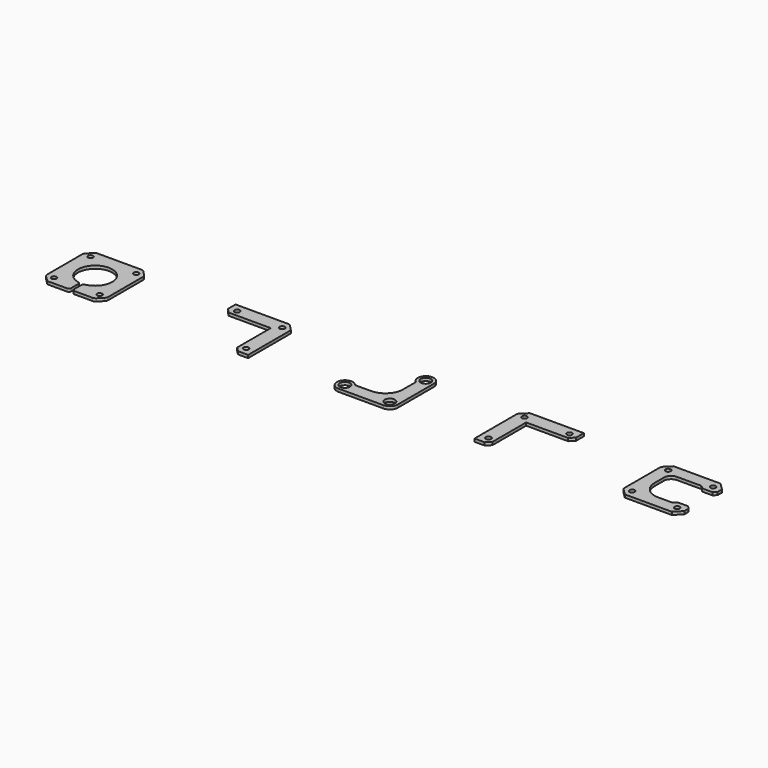
from build123d import *

# Parameters (mm, degrees)
F0_R     = 3.5
F1_DEPTH = 2
F0_R_2   = 1.8
F3_R     = 1.75
F4_DEPTH = 2
F9_DEPTH = 25
F10_R    = 1.5


with BuildPart() as f1:
    # F0 (on Top) → F1 (new body)
    with BuildSketch(Plane.XY):
        with BuildLine():
            Line((0, -12.25), (-11.0629401627, -12.25))
            ThreePointArc((-11.0629401627, -12.25), (-20.4053542176, -13.0125314072), (-15.5, -21))
            Line((-15.5, -21), (15.5, -21))
            ThreePointArc((15.5, -21), (19.3890872965, -19.3890872965), (21, -15.5))
            Line((21, -15.5), (21, 15.5))
            ThreePointArc((21, 15.5), (13.0125314072, 20.4053542176), (12.25, 11.0629401627))
            Line((12.25, 11.0629401627), (12.25, 0))
            ThreePointArc((12.25, 0), (8.6620580695, -8.6620580695), (0, -12.25))
        make_face()
        with Locations((-15.5, -15.5)):
            Circle(F0_R, mode=Mode.SUBTRACT)
        with Locations((15.5, -15.5)):
            Circle(F0_R, mode=Mode.SUBTRACT)
        with Locations((15.5, 15.5)):
            Circle(F0_R, mode=Mode.SUBTRACT)
    extrude(amount=F1_DEPTH)


with BuildPart() as f1b:
    # F0 (on Top) → F1, piece 2 (new body)
    with BuildSketch(Plane.XY):
        Polygon((88, 11.3), (117, 11.3), (120, 14.3), (120, 21), (82.8, 21), (78, 16.2), (78, -20.7), (85, -20.7), (88, -17.7), align=None)
        with Locations((83.5, -15.5)):
            Circle(F0_R_2, mode=Mode.SUBTRACT)
        with Locations((83.5, 15.5)):
            Circle(F0_R_2, mode=Mode.SUBTRACT)
        with Locations((114.5, 15.5)):
            Circle(F0_R_2, mode=Mode.SUBTRACT)
    extrude(amount=F1_DEPTH)


with BuildPart() as f1c:
    # F0 (on Top) → F1, piece 3 (new body)
    with BuildSketch(Plane.XY):
        with BuildLine():
            Line((186, -0.5), (186, 7.5))
            ThreePointArc((186, 7.5), (187.4644660941, 11.0355339059), (191, 12.5))
            Line((191, 12.5), (208, 12.5))
            Line((208, 12.5), (210, 10.5))
            Line((210, 10.5), (217, 10.5))
            Line((217, 10.5), (219, 12.5))
            Line((219, 12.5), (219, 16.2))
            Line((219, 16.2), (214.2, 21))
            Line((214.2, 21), (181.8, 21))
            Line((181.8, 21), (177, 16.2))
            Line((177, 16.2), (177, -16.2))
            Line((177, -16.2), (181.8, -21))
            Line((181.8, -21), (214.2, -21))
            Line((214.2, -21), (219, -16.2))
            Line((219, -16.2), (219, -12.5))
            Line((219, -12.5), (217, -10.5))
            Line((217, -10.5), (210, -10.5))
            Line((210, -10.5), (208, -12.5))
            Line((208, -12.5), (198, -12.5))
            ThreePointArc((198, -12.5), (189.5147186258, -8.9852813742), (186, -0.5))
        make_face()
        with Locations((182.5, -15.5)):
            Circle(F0_R_2, mode=Mode.SUBTRACT)
        with Locations((213.5, -15.5)):
            Circle(F0_R_2, mode=Mode.SUBTRACT)
        with Locations((182.5, 15.5)):
            Circle(F0_R_2, mode=Mode.SUBTRACT)
        with Locations((213.5, 15.5)):
            Circle(F0_R_2, mode=Mode.SUBTRACT)
    extrude(amount=F1_DEPTH)


with BuildPart() as f2_1:
    # F2: instance of F1b
    add(f1b.part.mirror(Plane.YZ))


with BuildPart() as f4:
    # F3 (on Top) → F4 (new body)
    with BuildSketch(Plane.XY):
        with BuildLine():
            Line((0, -21), (14.9573593129, -21))
            ThreePointArc((14.9573593129, -21), (16.10540961, -20.7716385975), (17.0786796564, -20.1213203436))
            Line((17.0786796564, -20.1213203436), (20.1213203436, -17.0786796564))
            ThreePointArc((20.1213203436, -17.0786796564), (20.7716385975, -16.10540961), (21, -14.9573593129))
            Line((21, -14.9573593129), (21, 14.9573593129))
            ThreePointArc((21, 14.9573593129), (20.7716385975, 16.10540961), (20.1213203436, 17.0786796564))
            Line((20.1213203436, 17.0786796564), (17.0786796564, 20.1213203436))
            ThreePointArc((17.0786796564, 20.1213203436), (16.10540961, 20.7716385975), (14.9573593129, 21))
            Line((14.9573593129, 21), (0, 21))
            Line((0, 21), (0, 11.8))
            ThreePointArc((0, 11.8), (11.8, 0), (0, -11.8))
            Line((0, -11.8), (0, -21))
        make_face()
        with Locations((15.7008621971, -15.7008621971)):
            Circle(F3_R, mode=Mode.SUBTRACT)
        with Locations((15.7008621971, 15.7008621971)):
            Circle(F3_R, mode=Mode.SUBTRACT)
    extrude(amount=F4_DEPTH)


with BuildPart() as f5_1:
    # F5: instance of F4
    add(f4.part.mirror(Plane(origin=(0, 16.4, 1), x_dir=(0, -1, 0), z_dir=(-1, 0, 0))))

    # F6: union F4
    add(f4.part)


with BuildPart() as f5_1_1:
    # F7: moved
    add(f5_1.part.moved(Location((-200, 0, 0))))

    # F8 (on face) → F9 (cut)
    with BuildSketch(Plane.XY.offset(2)):
        with BuildLine():
            ThreePointArc((-199, -11.7575507654), (-200, -11.8), (-201, -11.7575507654))
            Line((-201, -11.7575507654), (-201, -21))
            Line((-201, -21), (-199, -21))
            Line((-199, -21), (-199, -11.7575507654))
        make_face()
    extrude(amount=-F9_DEPTH, mode=Mode.SUBTRACT)

    # F10
    f10_edges = [f5_1_1.edges().sort_by_distance(p)[0] for p in [
        (-199, -21, 1),
        (-201, -21, 1),
        (-201, -11.757551, 1),
        (-199, -11.757551, 1),
    ]]
    fillet(f10_edges, radius=F10_R)


solid = Compound([f1.part, f1b.part, f1c.part, f2_1.part, f5_1_1.part])
